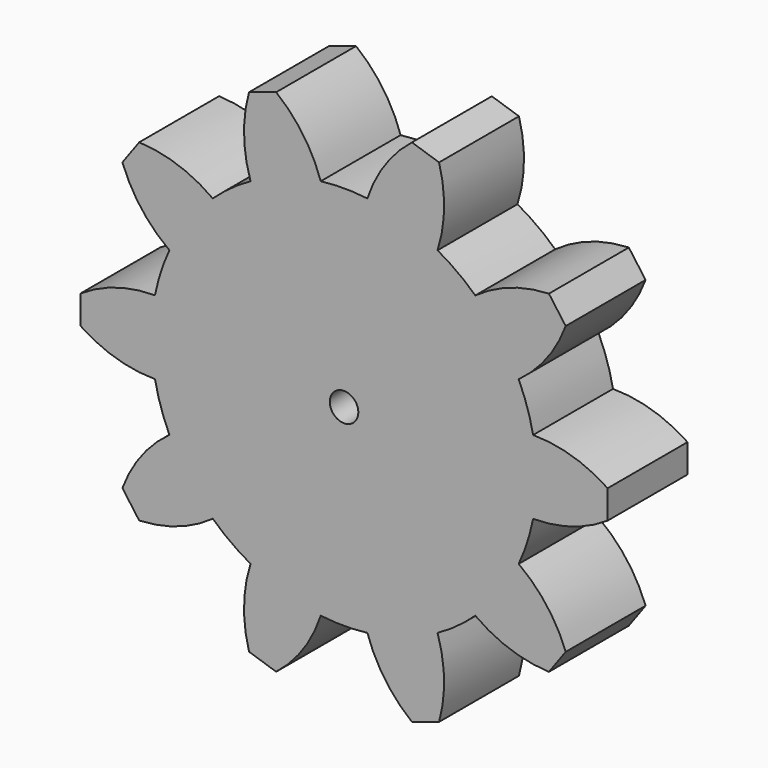
from build123d import *

# Parameters (mm, degrees)
F0_R     = 0.5
F1_DEPTH = 3.5


with BuildPart() as f1:
    # F0 (on Front) → F1 (new body)
    with BuildSketch(Plane.XZ):
        with BuildLine():
            ThreePointArc((-5.374979, -1.292901), (-5.281317, -0.649464), (-5.25, 0))
            ThreePointArc((-5.25, 0), (-5.281317, 0.649464), (-5.374979, 1.292901))
            ThreePointArc((-5.374979, 1.292901), (-5.580369, 2.085865), (-5.880297, 2.848111))
            ThreePointArc((-5.880297, 2.848111), (-6.539135, 3.96755), (-7.400193, 4.940069))
            ThreePointArc((-7.400193, 4.940069), (-8.03245, 5.460865), (-8.723134, 5.901241))
            ThreePointArc((-8.723134, 5.901241), (-9.914135, 6.419631), (-11.182378, 6.700298))
            ThreePointArc((-11.182378, 6.700298), (-12, 6.75), (-12.817622, 6.700298))
            ThreePointArc((-12.817622, 6.700298), (-14.085865, 6.419631), (-15.276866, 5.901241))
            ThreePointArc((-15.276866, 5.901241), (-15.96755, 5.460865), (-16.599807, 4.940069))
            ThreePointArc((-16.599807, 4.940069), (-17.460865, 3.96755), (-18.119703, 2.848111))
            ThreePointArc((-18.119703, 2.848111), (-18.419631, 2.085865), (-18.625021, 1.292901))
            ThreePointArc((-18.625021, 1.292901), (-18.75, 0), (-18.625021, -1.292901))
            ThreePointArc((-18.625021, -1.292901), (-18.419631, -2.085865), (-18.119703, -2.848111))
            ThreePointArc((-18.119703, -2.848111), (-17.460865, -3.96755), (-16.599807, -4.940069))
            ThreePointArc((-16.599807, -4.940069), (-15.96755, -5.460865), (-15.276866, -5.901241))
            ThreePointArc((-15.276866, -5.901241), (-14.085865, -6.419631), (-12.817622, -6.700298))
            ThreePointArc((-12.817622, -6.700298), (-12, -6.75), (-11.182378, -6.700298))
            ThreePointArc((-11.182378, -6.700298), (-9.914135, -6.419631), (-8.723134, -5.901241))
            ThreePointArc((-8.723134, -5.901241), (-8.03245, -5.460865), (-7.400193, -4.940069))
            ThreePointArc((-7.400193, -4.940069), (-6.539135, -3.96755), (-5.880297, -2.848111))
            ThreePointArc((-5.880297, -2.848111), (-5.580369, -2.085865), (-5.374979, -1.292901))
        make_face()
        with Locations((-12, 0)):
            Circle(F0_R, mode=Mode.SUBTRACT)
        with BuildLine():
            ThreePointArc((-5.374979, 1.292901), (-5.281317, 0.649464), (-5.25, 0))
            ThreePointArc((-5.25, 0), (-5.281317, -0.649464), (-5.374979, -1.292901))
            ThreePointArc((-5.374979, -1.292901), (-4.010392, -1.090307), (-2.763523, -0.5))
            Line((-2.763523, -0.5), (-2.763523, 0))
            Line((-2.763523, 0), (-2.763523, 0.5))
            ThreePointArc((-2.763523, 0.5), (-4.010392, 1.090307), (-5.374979, 1.292901))
        make_face()
        with BuildLine():
            ThreePointArc((-7.400193, 4.940069), (-6.539135, 3.96755), (-5.880297, 2.848111))
            ThreePointArc((-5.880297, 2.848111), (-4.895405, 3.814097), (-4.233641, 5.024556))
            Line((-4.233641, 5.024556), (-4.821426, 5.833573))
            ThreePointArc((-4.821426, 5.833573), (-6.177137, 5.578251), (-7.400193, 4.940069))
        make_face()
        with BuildLine():
            ThreePointArc((-4.233641, -5.024556), (-4.895405, -3.814097), (-5.880297, -2.848111))
            ThreePointArc((-5.880297, -2.848111), (-6.539135, -3.96755), (-7.400193, -4.940069))
            ThreePointArc((-7.400193, -4.940069), (-6.177137, -5.578251), (-4.821426, -5.833573))
            Line((-4.821426, -5.833573), (-4.233641, -5.024556))
        make_face()
        with BuildLine():
            ThreePointArc((-11.182378, 6.700298), (-9.914135, 6.419631), (-8.723134, 5.901241))
            ThreePointArc((-8.723134, 5.901241), (-8.494132, 7.261646), (-8.670244, 8.629903))
            Line((-8.670244, 8.629903), (-9.6213, 8.93892))
            ThreePointArc((-9.6213, 8.93892), (-10.568018, 7.935492), (-11.182378, 6.700298))
        make_face()
        with BuildLine():
            ThreePointArc((-8.670244, -8.629903), (-8.494132, -7.261646), (-8.723134, -5.901241))
            ThreePointArc((-8.723134, -5.901241), (-9.914135, -6.419631), (-11.182378, -6.700298))
            ThreePointArc((-11.182378, -6.700298), (-10.568018, -7.935492), (-9.6213, -8.93892))
            Line((-9.6213, -8.93892), (-8.670244, -8.629903))
        make_face()
        with BuildLine():
            ThreePointArc((-15.276866, 5.901241), (-14.085865, 6.419631), (-12.817622, 6.700298))
            ThreePointArc((-12.817622, 6.700298), (-13.431982, 7.935492), (-14.3787, 8.93892))
            Line((-14.3787, 8.93892), (-15.329756, 8.629903))
            ThreePointArc((-15.329756, 8.629903), (-15.505868, 7.261646), (-15.276866, 5.901241))
        make_face()
        with BuildLine():
            ThreePointArc((-14.3787, -8.93892), (-13.431982, -7.935492), (-12.817622, -6.700298))
            ThreePointArc((-12.817622, -6.700298), (-14.085865, -6.419631), (-15.276866, -5.901241))
            ThreePointArc((-15.276866, -5.901241), (-15.505868, -7.261646), (-15.329756, -8.629903))
            Line((-15.329756, -8.629903), (-14.3787, -8.93892))
        make_face()
        with BuildLine():
            ThreePointArc((-18.119703, 2.848111), (-17.460865, 3.96755), (-16.599807, 4.940069))
            ThreePointArc((-16.599807, 4.940069), (-17.822863, 5.578251), (-19.178574, 5.833573))
            Line((-19.178574, 5.833573), (-19.766359, 5.024556))
            ThreePointArc((-19.766359, 5.024556), (-19.104595, 3.814097), (-18.119703, 2.848111))
        make_face()
        with BuildLine():
            ThreePointArc((-19.178574, -5.833573), (-17.822863, -5.578251), (-16.599807, -4.940069))
            ThreePointArc((-16.599807, -4.940069), (-17.460865, -3.96755), (-18.119703, -2.848111))
            ThreePointArc((-18.119703, -2.848111), (-19.104595, -3.814097), (-19.766359, -5.024556))
            Line((-19.766359, -5.024556), (-19.178574, -5.833573))
        make_face()
        with BuildLine():
            ThreePointArc((-18.625021, -1.292901), (-18.75, 0), (-18.625021, 1.292901))
            ThreePointArc((-18.625021, 1.292901), (-19.989608, 1.090307), (-21.236477, 0.5))
            Line((-21.236477, 0.5), (-21.236477, 0))
            Line((-21.236477, 0), (-21.236477, -0.5))
            ThreePointArc((-21.236477, -0.5), (-19.989608, -1.090307), (-18.625021, -1.292901))
        make_face()
    extrude(amount=-F1_DEPTH)


solid = f1.part
